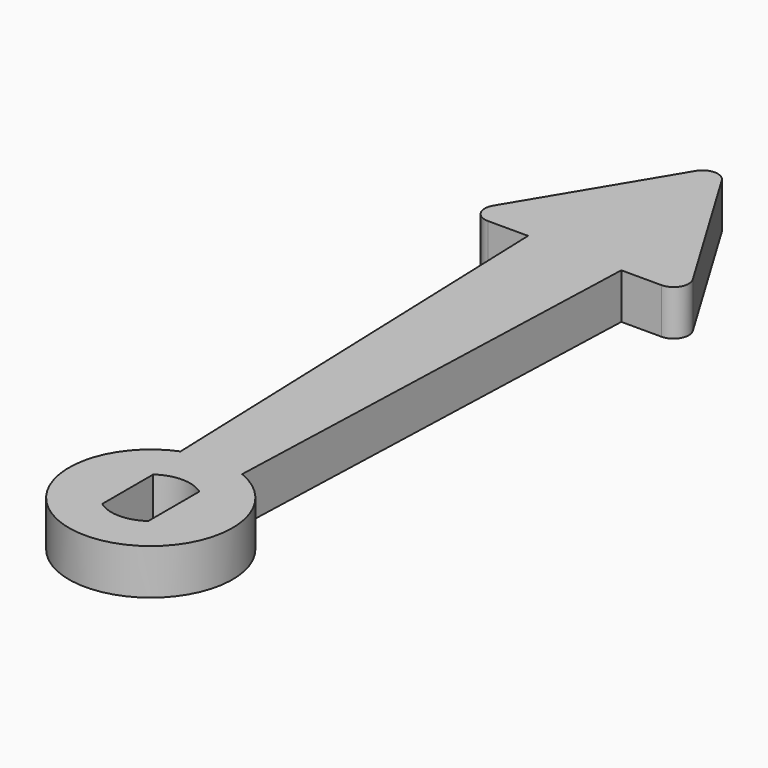
from build123d import *

# Parameters (mm, degrees)
F0_R     = 5.4
F1_DEPTH = 1.5
F3_DEPTH = 1.5
F5_DEPTH = 3
F6_R     = 1


with BuildPart() as f1:
    # F0 (on Top) → F1 (new body, symmetric)
    with BuildSketch(Plane.XY):
        Circle(F0_R)
        with BuildLine():
            ThreePointArc((1.525, 2.1057955741), (2.3157072354, 1.1821590418), (2.6, 0))
            ThreePointArc((2.6, 0), (2.3157072354, -1.1821590418), (1.525, -2.1057955741))
            ThreePointArc((1.525, -2.1057955741), (0, -2.6), (-1.525, -2.1057955741))
            ThreePointArc((-1.525, -2.1057955741), (-2.6, 0), (-1.525, 2.1057955741))
            ThreePointArc((-1.525, 2.1057955741), (0, 2.6), (1.525, 2.1057955741))
        make_face(mode=Mode.SUBTRACT)
        with BuildLine():
            Line((-1.525, -2.1057955741), (-1.525, 2.1057955741))
            ThreePointArc((-1.525, 2.1057955741), (-2.6, 0), (-1.525, -2.1057955741))
        make_face()
        with BuildLine():
            ThreePointArc((1.525, -2.1057955741), (2.3157072354, -1.1821590418), (2.6, 0))
            ThreePointArc((2.6, 0), (2.3157072354, 1.1821590418), (1.525, 2.1057955741))
            Line((1.525, 2.1057955741), (1.525, -2.1057955741))
        make_face()
    extrude(amount=F1_DEPTH, both=True)

    # F2 (on Top) → F3 (join, symmetric)
    with BuildSketch(Plane.XY):
        Polygon((3.0802667684, 35), (0, 35), (-3.0802667684, 35), (-2, 4.0652072057), (0, 4.0652072057), (2, 4.0652072057), align=None)
    extrude(amount=F3_DEPTH, both=True)

    # F4 (on face) → F5 (join, through all)
    with BuildSketch(Plane.XY.offset(1.5)):
        Polygon((0, 47.5), (-7.5, 35), (-3.0802667684, 35), (3.0802667684, 35), (7.5, 35), align=None)
    extrude(amount=-F5_DEPTH)

    # F6
    f6_edges = [f1.edges().sort_by_distance(p)[0] for p in [
        (-7.5, 35, 0),
        (0, 47.5, 0),
        (7.5, 35, 0),
    ]]
    fillet(f6_edges, radius=F6_R)


solid = f1.part
